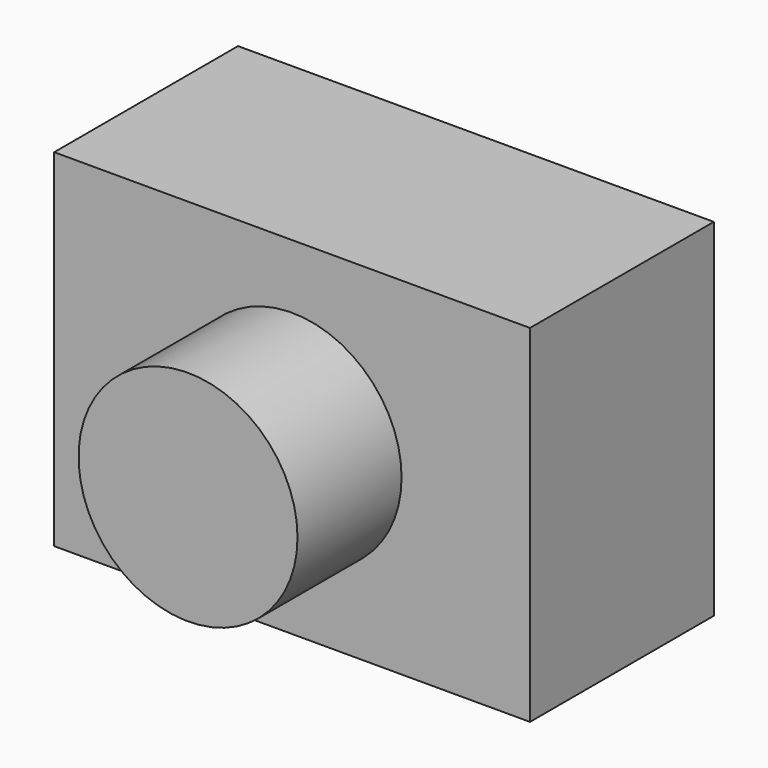
from build123d import *

# Parameters (mm, degrees)
F0_R     = 5.05
F1_DEPTH = 6
F0_W     = 21.95
F0_H     = 16
F2_DEPTH = 10.6


with BuildPart() as f1:
    # F0 (on Front) → F1 (new body)
    with BuildSketch(Plane.XZ):
        with Locations((0, 8)):
            Circle(F0_R)
    extrude(amount=F1_DEPTH)

    # F0 (on Front) → F2 (join)
    with BuildSketch(Plane.XZ):
        with Locations((0, 8)):
            Rectangle(F0_W, F0_H)
        with Locations((0, 8)):
            Circle(F0_R, mode=Mode.SUBTRACT)
        with Locations((0, 8)):
            Circle(F0_R)
    extrude(amount=-F2_DEPTH)


solid = f1.part
